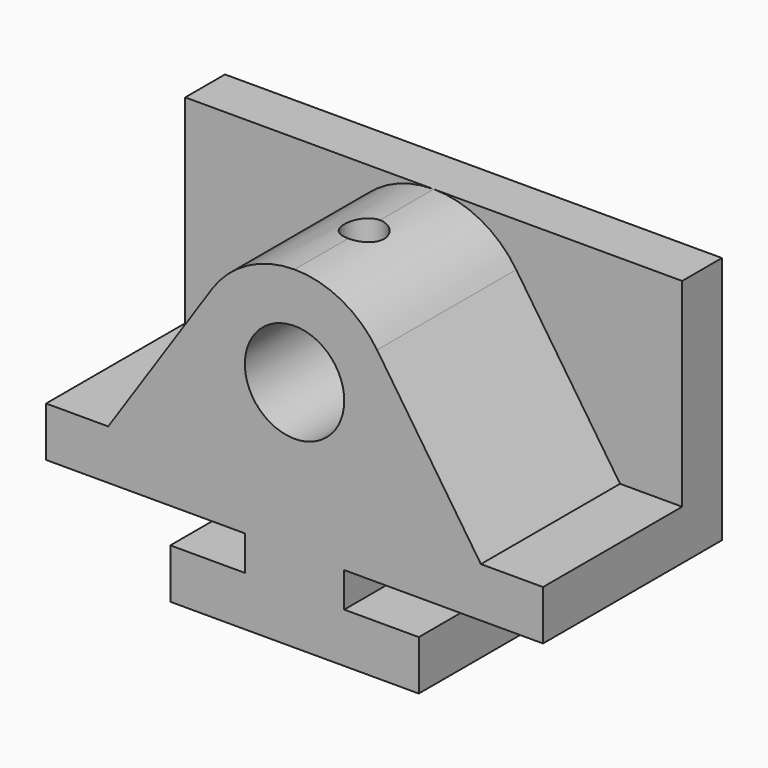
from build123d import *

# Parameters (mm, degrees)
F1_DEPTH = 57.15
F2_R     = 12.7
F3_DEPTH = 44.45
F4_DEPTH = 44.45
F5_R     = 5.08
F6_DEPTH = 25.4


with BuildPart() as f1:
    # F0 (on Front) → F1 (new body)
    with BuildSketch(Plane.XZ):
        Polygon((0, 63.5), (0, 0), (50.8, 0), (50.8, -8.89), (31.75, -8.89), (31.75, -21.59), (95.25, -21.59), (95.25, -8.89), (76.2, -8.89), (76.2, 0), (127, 0), (127, 63.5), align=None)
    extrude(amount=F1_DEPTH)

    # F2 (on face) → F3 (cut)
    with BuildSketch(Plane.XZ.offset(57.15)):
        with Locations((63.5, 38.1)):
            Circle(F2_R)
    extrude(amount=-F3_DEPTH, mode=Mode.SUBTRACT)

    # F2 (on face) → F4 (cut)
    with BuildSketch(Plane.XZ.offset(57.15)):
        with BuildLine():
            Line((0, 63.5), (0, 12.7))
            Line((0, 12.7), (15.875, 12.7))
            Line((15.875, 12.7), (42.406574, 52.250173))
            ThreePointArc((42.406574, 52.250173), (51.547059, 60.511765), (63.5, 63.5))
            Line((63.5, 63.5), (0, 63.5))
        make_face()
        with BuildLine():
            Line((127, 63.5), (63.5, 63.5))
            ThreePointArc((63.5, 63.5), (75.452941, 60.511765), (84.593426, 52.250173))
            Line((84.593426, 52.250173), (111.125, 12.7))
            Line((111.125, 12.7), (127, 12.7))
            Line((127, 12.7), (127, 63.5))
        make_face()
    extrude(amount=-F4_DEPTH, mode=Mode.SUBTRACT)

    # F5 (on face) → F6 (cut)
    with BuildSketch(Plane.XY.offset(63.5)):
        with Locations((63.5, -34.925)):
            Circle(F5_R)
    extrude(amount=-F6_DEPTH, mode=Mode.SUBTRACT)


solid = f1.part
